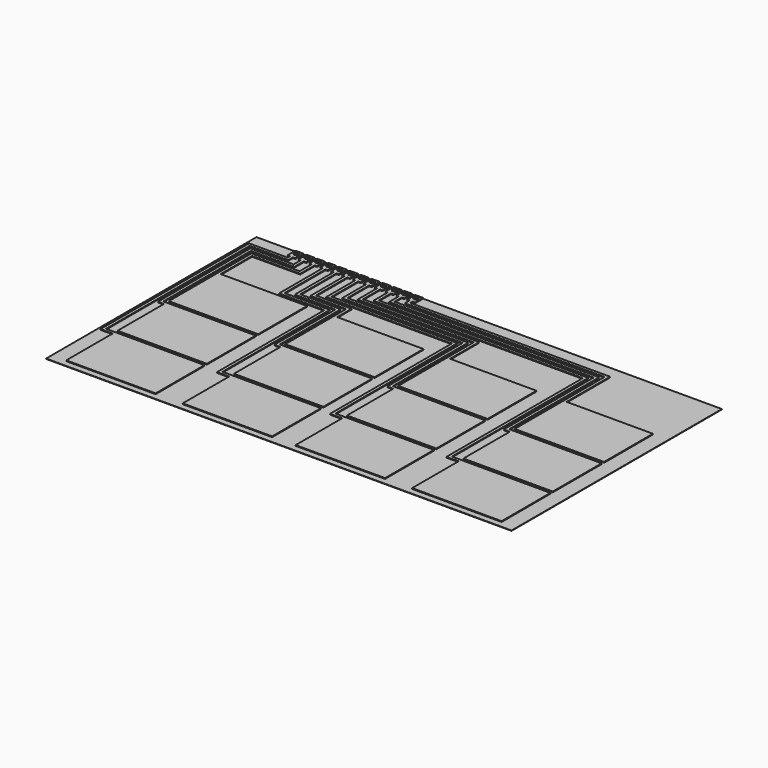
from build123d import *

# Parameters (mm, degrees)
F0_W     = 308
F0_H     = 174
F1_DEPTH = 0.25
F2_R     = 1.6
F3_DEPTH = 0.5


with BuildPart() as f1:
    # F0 (on Top) → F1 (new body)
    with BuildSketch(Plane.XY):
        Rectangle(F0_W, F0_H)
    extrude(amount=F1_DEPTH)

    # F2 (on face) → F3 (join)
    with BuildSketch(Plane.XY.offset(0.25)):
        Polygon((-86.945909, 80.4), (-86.945909, 87), (-92.145909, 87), (-92.145909, 80.4), (-90.545909, 80.4), (-88.545909, 80.4), align=None)
        with Locations((-89.545909, 84.5)):
            Circle(F2_R, mode=Mode.SUBTRACT)
        Polygon((-88.545909, 54.4), (-88.545909, 80.4), (-90.545909, 80.4), (-90.545909, 52.4), (-66.942871, 52.4), (-66.942871, 42.4), (-64.942871, 42.4), (-64.942871, 54.4), align=None)
        Polygon((-7.798169, 42.4), (-64.942871, 42.4), (-66.942871, 42.4), (-66.942871, 2), (-7.798169, 2), align=None)
        Polygon((-94.145909, 87), (-99.345909, 87), (-99.345909, 80.4), (-97.745909, 80.4), (-95.745909, 80.4), (-94.145909, 80.4), align=None)
        with Locations((-96.745909, 84.5)):
            Circle(F2_R, mode=Mode.SUBTRACT)
        Polygon((-95.745909, 80.4), (-97.745909, 80.4), (-97.745909, 48.4), (-70.942871, 48.4), (-70.942871, -2), (-66.942871, -2), (-66.942871, 0), (-68.942871, 0), (-68.942871, 50.4), (-95.745909, 50.4), align=None)
        Polygon((-66.942871, 0), (-66.942871, -2), (-66.942871, -40.4), (-7.798169, -40.4), (-7.798169, 0), align=None)
        Polygon((-101.345909, 87), (-106.545909, 87), (-106.545909, 80.4), (-104.945909, 80.4), (-102.945909, 80.4), (-101.345909, 80.4), align=None)
        with Locations((-103.945909, 84.5)):
            Circle(F2_R, mode=Mode.SUBTRACT)
        Polygon((-102.945909, 80.4), (-104.945909, 80.4), (-104.945909, 44.4), (-74.942871, 44.4), (-74.942871, -44.4), (-66.942871, -44.4), (-66.942871, -42.4), (-72.942871, -42.4), (-72.942871, 46.4), (-102.945909, 46.4), align=None)
        Polygon((-66.942871, -42.4), (-66.942871, -44.4), (-66.942871, -82.8), (-7.798169, -82.8), (-7.798169, -42.4), align=None)
        Polygon((-108.545909, 87), (-113.745909, 87), (-113.745909, 80.4), (-112.145909, 80.4), (-110.145909, 80.4), (-108.545909, 80.4), align=None)
        with Locations((-111.145909, 84.5)):
            Circle(F2_R, mode=Mode.SUBTRACT)
        Polygon((-110.145909, 80.4), (-112.145909, 80.4), (-112.145909, 70.4), (-144, 70.4), (-144, 42.4), (-142, 42.4), (-142, 68.4), (-110.145909, 68.4), align=None)
        Polygon((-142, 42.4), (-144, 42.4), (-144, 2), (-84.855298, 2), (-84.855298, 42.4), align=None)
        Polygon((-115.745909, 87), (-120.945909, 87), (-120.945909, 80.4), (-119.345909, 80.4), (-117.345909, 80.4), (-115.745909, 80.4), align=None)
        with Locations((-118.345909, 84.5)):
            Circle(F2_R, mode=Mode.SUBTRACT)
        Polygon((-117.345909, 80.4), (-119.345909, 80.4), (-119.345909, 74.4), (-148, 74.4), (-148, -2), (-144, -2), (-144, 0), (-146, 0), (-146, 72.4), (-117.345909, 72.4), align=None)
        Polygon((-144, 0), (-144, -2), (-144, -40.4), (-84.855298, -40.4), (-84.855298, 0), align=None)
        Polygon((-122.945909, 87), (-128.145909, 87), (-128.145909, 80.4), (-126.545909, 80.4), (-124.545909, 80.4), (-122.945909, 80.4), align=None)
        with Locations((-125.545909, 84.5)):
            Circle(F2_R, mode=Mode.SUBTRACT)
        Polygon((-124.545909, 80.4), (-126.545909, 80.4), (-126.545909, 78.4), (-152, 78.4), (-152, -44.4), (-144, -44.4), (-144, -42.4), (-150, -42.4), (-150, 76.4), (-124.545909, 76.4), align=None)
        Polygon((-144, -42.4), (-144, -44.4), (-144, -82.8), (-84.855298, -82.8), (-84.855298, -42.4), align=None)
        Polygon((-81.345909, 80.4), (-79.745909, 80.4), (-79.745909, 87), (-84.945909, 87), (-84.945909, 80.4), (-83.345909, 80.4), align=None)
        with Locations((-82.345909, 84.5)):
            Circle(F2_R, mode=Mode.SUBTRACT)
        Polygon((-81.345909, 58.4), (-81.345909, 80.4), (-83.345909, 80.4), (-83.345909, 56.4), (-0.201831, 56.4), (-0.201831, -44.4), (7.798169, -44.4), (7.798169, -42.4), (1.798169, -42.4), (1.798169, 58.4), align=None)
        Polygon((66.942871, -42.4), (7.798169, -42.4), (7.798169, -44.4), (7.798169, -82.8), (66.942871, -82.8), align=None)
        Polygon((-72.545909, 87), (-77.745909, 87), (-77.745909, 80.4), (-76.145909, 80.4), (-74.145909, 80.4), (-72.545909, 80.4), align=None)
        with Locations((-75.145909, 84.5)):
            Circle(F2_R, mode=Mode.SUBTRACT)
        Polygon((-74.145909, 80.4), (-76.145909, 80.4), (-76.145909, 60.4), (3.798169, 60.4), (3.798169, -2), (7.798169, -2), (7.798169, 0), (5.798169, 0), (5.798169, 62.4), (-74.145909, 62.4), align=None)
        Polygon((7.798169, 0), (7.798169, -2), (7.798169, -40.4), (66.942871, -40.4), (66.942871, 0), align=None)
        Polygon((-65.345909, 87), (-70.545909, 87), (-70.545909, 80.4), (-68.945909, 80.4), (-66.945909, 80.4), (-65.345909, 80.4), align=None)
        with Locations((-67.945909, 84.5)):
            Circle(F2_R, mode=Mode.SUBTRACT)
        Polygon((-66.945909, 80.4), (-68.945909, 80.4), (-68.945909, 64.4), (7.798169, 64.4), (7.798169, 42.4), (9.798169, 42.4), (9.798169, 66.4), (-66.945909, 66.4), align=None)
        Polygon((9.798169, 42.4), (7.798169, 42.4), (7.798169, 2), (66.942871, 2), (66.942871, 42.4), align=None)
        Polygon((-58.145909, 87), (-63.345909, 87), (-63.345909, 80.4), (-61.745909, 80.4), (-59.745909, 80.4), (-58.145909, 80.4), align=None)
        with Locations((-60.745909, 84.5)):
            Circle(F2_R, mode=Mode.SUBTRACT)
        Polygon((-59.745909, 80.4), (-61.745909, 80.4), (-61.745909, 68.4), (76.855298, 68.4), (76.855298, -44.4), (84.855298, -44.4), (84.855298, -42.4), (78.855298, -42.4), (78.855298, 70.4), (-59.745909, 70.4), align=None)
        Polygon((84.855298, -42.4), (84.855298, -44.4), (84.855298, -82.8), (144.097387, -82.8), (144, -42.4), align=None)
        Polygon((-50.945909, 87), (-56.145909, 87), (-56.145909, 80.4), (-54.545909, 80.4), (-52.545909, 80.4), (-50.945909, 80.4), align=None)
        with Locations((-53.545909, 84.5)):
            Circle(F2_R, mode=Mode.SUBTRACT)
        Polygon((-52.545909, 80.4), (-54.545909, 80.4), (-54.545909, 72.4), (80.855298, 72.4), (80.855298, -2), (84.855298, -2), (84.855298, 0), (82.855298, 0), (82.855298, 74.4), (-52.545909, 74.4), align=None)
        Polygon((84.855298, 0), (84.855298, -2), (84.855298, -40.4), (144, -40.4), (144, 0), align=None)
        Polygon((-43.745909, 87), (-48.945909, 87), (-48.945909, 80.4), (-47.345909, 80.4), (-45.345909, 80.4), (-43.745909, 80.4), align=None)
        with Locations((-46.345909, 84.5)):
            Circle(F2_R, mode=Mode.SUBTRACT)
        Polygon((-45.345909, 80.4), (-47.345909, 80.4), (-47.345909, 76.4), (84.855298, 76.4), (84.855298, 42.4), (86.855298, 42.4), (86.855298, 78.4), (-45.345909, 78.4), align=None)
        Polygon((86.855298, 42.4), (84.855298, 42.4), (84.855298, 2), (144, 2), (144, 42.4), align=None)
    extrude(amount=F3_DEPTH)


solid = f1.part
